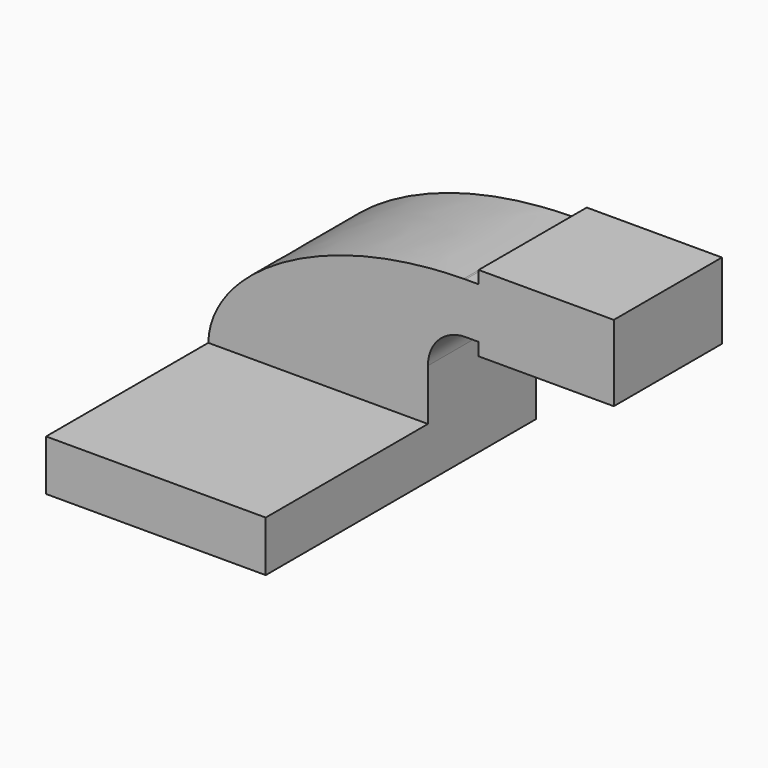
from build123d import *

# Parameters (mm, degrees)
F1_DEPTH = 127
F0_W     = 25.4
F0_H     = 4.7752
F0_H_2   = 19.05
F0_H_3   = 4.7498
F2_DEPTH = 50.8


with BuildPart() as f1:
    # F0 (on Front) → F1 (new body)
    with BuildSketch(Plane.XZ):
        Polygon((-41.275, -9.525), (41.275, -9.525), (41.275, 9.525), (22.225, 9.525), (-41.275, 9.525), align=None)
    extrude(amount=F1_DEPTH)

    # F0 (on Front) → F2 (join)
    with BuildSketch(Plane.XZ):
        Polygon((-41.275, -9.525), (41.275, -9.525), (41.275, 9.525), (22.225, 9.525), (-41.275, 9.525), align=None)
        with BuildLine():
            Line((22.225, 9.525), (41.275, 9.525))
            Line((41.275, 9.525), (41.275, 28.7935645963))
            ThreePointArc((41.275, 28.7935645963), (45.3994155195, 38.7507844805), (55.3566354037, 42.8752))
            Line((55.3566354037, 42.8752), (60.325, 42.8752))
            Line((60.325, 42.8752), (60.325, 61.9252))
            Line((60.325, 61.9252), (55.3566354037, 61.9252))
            add(Edge.make_bspline(
                [(54.7015401596, 61.9187229317), (54.9196743862, 61.9212875982), (55.1380399853, 61.923447179), (55.3566354037, 61.9252)],
                knots=[109.4906876808, 109.4906876808, 109.4906876808, 109.4906876808, 109.9247648204, 109.9247648204, 109.9247648204, 109.9247648204], degree=3))
            ThreePointArc((54.7015401596, 61.9187229317), (31.6985538954, 51.9884011741), (22.225, 28.7935645963))
            Line((22.225, 28.7935645963), (22.225, 9.525))
        make_face()
        with BuildLine():
            add(Edge.make_bspline(
                [(-41.275, 9.525), (-40.6210532053, 34.8517628928), (-0.3201698125, 61.2718169443), (54.7015401596, 61.9187229317)],
                knots=[0, 0, 0, 0, 109.4906876808, 109.4906876808, 109.4906876808, 109.4906876808], degree=3))
            Line((-41.275, 9.525), (22.225, 9.525))
            Line((22.225, 9.525), (22.225, 28.7935645963))
            ThreePointArc((22.225, 28.7935645963), (31.6985538954, 51.9884011741), (54.7015401596, 61.9187229317))
        make_face()
        with BuildLine():
            ThreePointArc((55.3566354037, 61.9252), (55.029071772, 61.9235806934), (54.7015401596, 61.9187229317))
            add(Edge.make_bspline(
                [(54.7015401596, 61.9187229317), (54.9196743862, 61.9212875982), (55.1380399853, 61.923447179), (55.3566354037, 61.9252)],
                knots=[109.4906876808, 109.4906876808, 109.4906876808, 109.4906876808, 109.9247648204, 109.9247648204, 109.9247648204, 109.9247648204], degree=3))
        make_face()
        with Locations((73.025, 40.4876)):
            Rectangle(F0_W, F0_H)
        with Locations((73.025, 52.4002)):
            Rectangle(F0_W, F0_H_2)
        with Locations((73.025, 64.3001)):
            Rectangle(F0_W, F0_H_3)
        Polygon((85.725, 61.9252), (85.725, 42.8752), (85.725, 38.1), (111.125, 38.1), (111.125, 66.675), (85.725, 66.675), align=None)
    extrude(amount=F2_DEPTH)


solid = f1.part
